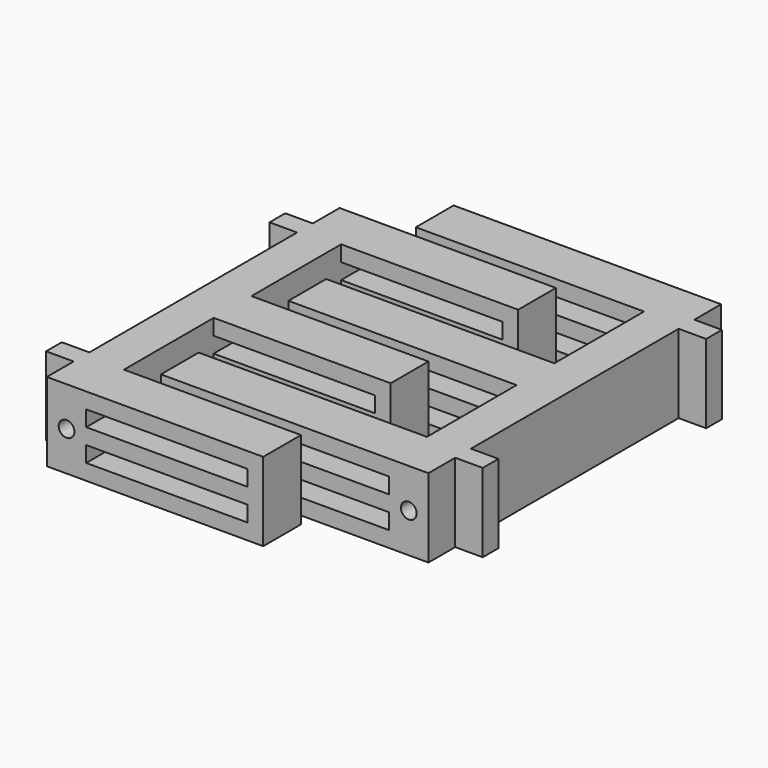
from build123d import *

# Parameters (mm, degrees)
PAD_DEPTH       = 20
SKETCH001_R     = 2
SKETCH001_W     = 41
SKETCH001_H     = 4
POCKET_DEPTH    = 93.001
PAD001_DEPTH    = 20
SKETCH003_R     = 2
SKETCH003_W     = 54
SKETCH003_H     = 4
POCKET001_DEPTH = 93.001


with BuildPart() as obj1:
    # Sketch → Pad (new body)
    with BuildSketch(Plane.XY):
        Polygon((-10, -46.5), (45, -46.5), (45, -34.5), (0, -34.5), (0, -6), (45, -6), (45, 6), (0, 6), (0, 34.5), (45, 34.5), (45, 46.5), (-10, 46.5), (-10, 38), (-17, 38), (-17, 33), (-10, 33), (-10, -33), (-17, -33), (-17, -38), (-10, -38), align=None)
    extrude(amount=PAD_DEPTH)

    # Sketch001 → Pocket (cut, through all)
    with BuildSketch(Plane.XZ.offset(46.5)):
        with Locations((-5, 10)):
            Circle(SKETCH001_R)
        with Locations((20.5, 14)):
            Rectangle(SKETCH001_W, SKETCH001_H)
        with Locations((20.5, 6)):
            Rectangle(SKETCH001_W, SKETCH001_H)
    extrude(amount=-POCKET_DEPTH, mode=Mode.SUBTRACT)


with BuildPart() as obj2:
    # Sketch002 → Pad001 (new body)
    with BuildSketch(Plane(origin=(65, 15, 0), x_dir=(-1, 0, 0), z_dir=(0, 0, 1))):
        Polygon((-10, -46.5), (58, -46.5), (58, -34.5), (0, -34.5), (0, -6), (58, -6), (58, 6), (0, 6), (0, 34.5), (58, 34.5), (58, 46.5), (-10, 46.5), (-10, 38), (-17, 38), (-17, 33), (-10, 33), (-10, -33), (-17, -33), (-17, -38), (-10, -38), align=None)
    extrude(amount=PAD001_DEPTH)

    # Sketch003 → Pocket001 (cut, through all)
    with BuildSketch(Plane(origin=(65, 61.5, 0), x_dir=(-1, 0, 0), z_dir=(0, 1, 0))):
        with Locations((-5, 10)):
            Circle(SKETCH003_R)
        with Locations((27, 14)):
            Rectangle(SKETCH003_W, SKETCH003_H)
        with Locations((27, 6)):
            Rectangle(SKETCH003_W, SKETCH003_H)
    extrude(amount=-POCKET001_DEPTH, mode=Mode.SUBTRACT)


solid = Compound([obj1.part, obj2.part])
